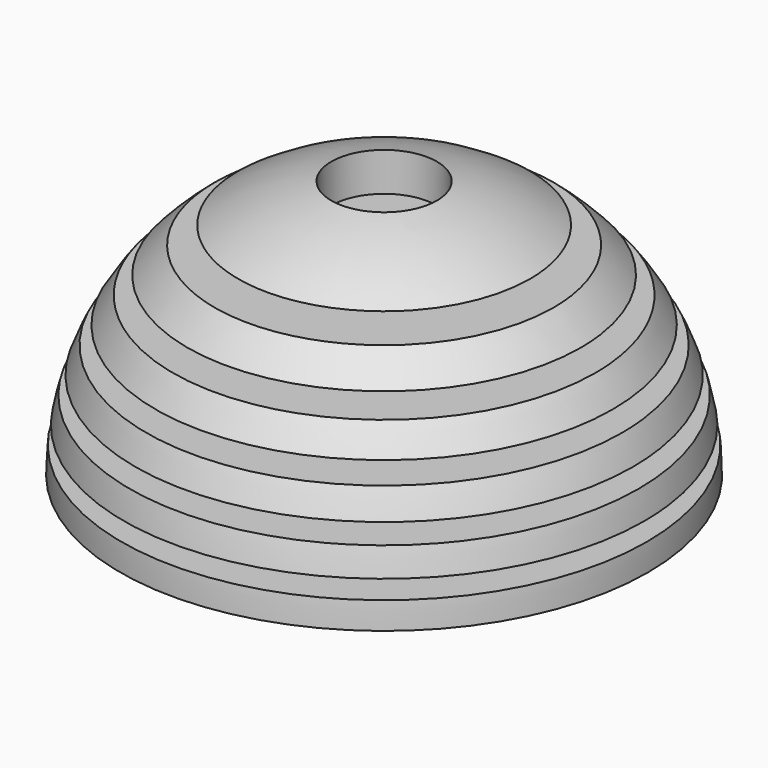
from build123d import *

# Parameters (mm, degrees)
F3_R      = 38.247067
F4_DEPTH  = 2
F6_R      = 37.536767
F7_DEPTH  = 2
F9_R      = 34.891348
F10_DEPTH = 2
F12_R     = 35.798788
F13_DEPTH = 2
F15_R     = 35.099937
F16_DEPTH = 2
F17_R     = 6
F18_DEPTH = 35


with BuildPart() as f1:
    # F0 (on Front) → F1 (revolve)
    with BuildSketch(Plane.XZ):
        with BuildLine():
            Line((0, 0), (30, 0))
            ThreePointArc((30, 0), (21.213203, 21.213203), (0, 30))
            Line((0, 30), (0, 0))
        make_face()
    revolve(axis=Axis((0, 0, 15), (0, 0, 1)))

    # F3 (on offset) → F4 (cut)
    with BuildSketch(Plane.XY.offset(3)):
        Circle(F3_R)
    extrude(amount=F4_DEPTH, mode=Mode.SUBTRACT)

    # F6 (on offset) → F7 (cut)
    with BuildSketch(Plane.XY.offset(8)):
        Circle(F6_R)
    extrude(amount=F7_DEPTH, mode=Mode.SUBTRACT)

    # F9 (on offset) → F10 (cut)
    with BuildSketch(Plane.XY.offset(13)):
        Circle(F9_R)
    extrude(amount=F10_DEPTH, mode=Mode.SUBTRACT)

    # F12 (on offset) → F13 (cut)
    with BuildSketch(Plane.XY.offset(18)):
        Circle(F12_R)
    extrude(amount=F13_DEPTH, mode=Mode.SUBTRACT)

    # F15 (on offset) → F16 (cut)
    with BuildSketch(Plane.XY.offset(23)):
        Circle(F15_R)
    extrude(amount=F16_DEPTH, mode=Mode.SUBTRACT)

    # F17 (on face) → F18 (cut, symmetric)
    with BuildSketch(Plane(origin=(0, 0, 0), x_dir=(1, 0, 0), z_dir=(0, 0, -1))):
        Circle(F17_R)
    extrude(amount=F18_DEPTH, both=True, mode=Mode.SUBTRACT)


solid = f1.part
